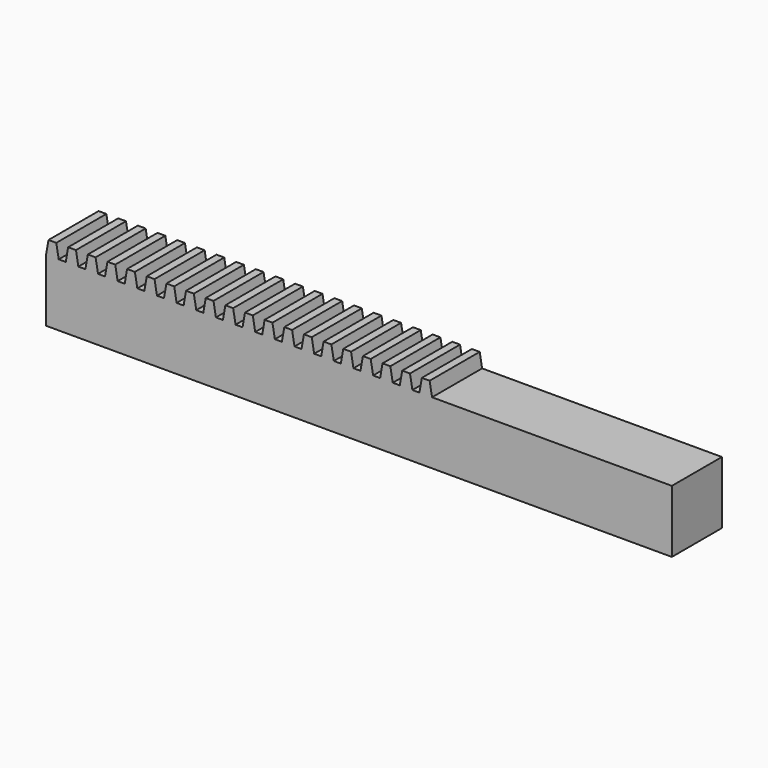
from build123d import *

# Parameters (mm, degrees)
F1_DEPTH = 5


with BuildPart() as f1:
    # F0 (on Front) → F1 (new body)
    with BuildSketch(Plane.XZ):
        Polygon((0, 5), (0, 0), (50, 0), (50, 5), (30.84, 5), (29.83, 5), (29.27, 5), (28.26, 5), (27.7, 5), (26.69, 5), (26.13, 5), (25.12, 5), (24.56, 5), (23.55, 5), (22.99, 5), (21.98, 5), (21.42, 5), (20.41, 5), (19.85, 5), (18.84, 5), (18.28, 5), (17.27, 5), (16.71, 5), (15.7, 5), (15.14, 5), (14.13, 5), (13.57, 5), (12.56, 5), (12, 5), (10.99, 5), (10.43, 5), (9.42, 5), (8.86, 5), (7.85, 5), (7.29, 5), (6.28, 5), (5.72, 5), (4.71, 5), (4.15, 5), (3.14, 5), (2.58, 5), (1.57, 5), (1.01, 5), align=None)
        Polygon((0.19396, 6.1), (0, 5), (1.01, 5), (0.81604, 6.1), align=None)
        Polygon((29.83, 5), (30.84, 5), (30.64604, 6.1), (30.02396, 6.1), align=None)
        Polygon((1.76396, 6.1), (1.57, 5), (2.58, 5), (2.38604, 6.1), align=None)
        Polygon((28.26, 5), (29.27, 5), (29.07604, 6.1), (28.45396, 6.1), align=None)
        Polygon((3.33396, 6.1), (3.14, 5), (4.15, 5), (3.95604, 6.1), align=None)
        Polygon((26.69, 5), (27.7, 5), (27.50604, 6.1), (26.88396, 6.1), align=None)
        Polygon((4.90396, 6.1), (4.71, 5), (5.72, 5), (5.52604, 6.1), align=None)
        Polygon((25.12, 5), (26.13, 5), (25.93604, 6.1), (25.31396, 6.1), align=None)
        Polygon((6.47396, 6.1), (6.28, 5), (7.29, 5), (7.09604, 6.1), align=None)
        Polygon((23.55, 5), (24.56, 5), (24.36604, 6.1), (23.74396, 6.1), align=None)
        Polygon((8.04396, 6.1), (7.85, 5), (8.86, 5), (8.66604, 6.1), align=None)
        Polygon((21.98, 5), (22.99, 5), (22.79604, 6.1), (22.17396, 6.1), align=None)
        Polygon((9.61396, 6.1), (9.42, 5), (10.43, 5), (10.23604, 6.1), align=None)
        Polygon((20.41, 5), (21.42, 5), (21.22604, 6.1), (20.60396, 6.1), align=None)
        Polygon((11.18396, 6.1), (10.99, 5), (12, 5), (11.80604, 6.1), align=None)
        Polygon((18.84, 5), (19.85, 5), (19.65604, 6.1), (19.03396, 6.1), align=None)
        Polygon((12.75396, 6.1), (12.56, 5), (13.57, 5), (13.37604, 6.1), align=None)
        Polygon((17.27, 5), (18.28, 5), (18.08604, 6.1), (17.46396, 6.1), align=None)
        Polygon((14.32396, 6.1), (14.13, 5), (15.14, 5), (14.94604, 6.1), align=None)
        Polygon((15.7, 5), (16.71, 5), (16.51604, 6.1), (15.89396, 6.1), align=None)
    extrude(amount=F1_DEPTH)


solid = f1.part
